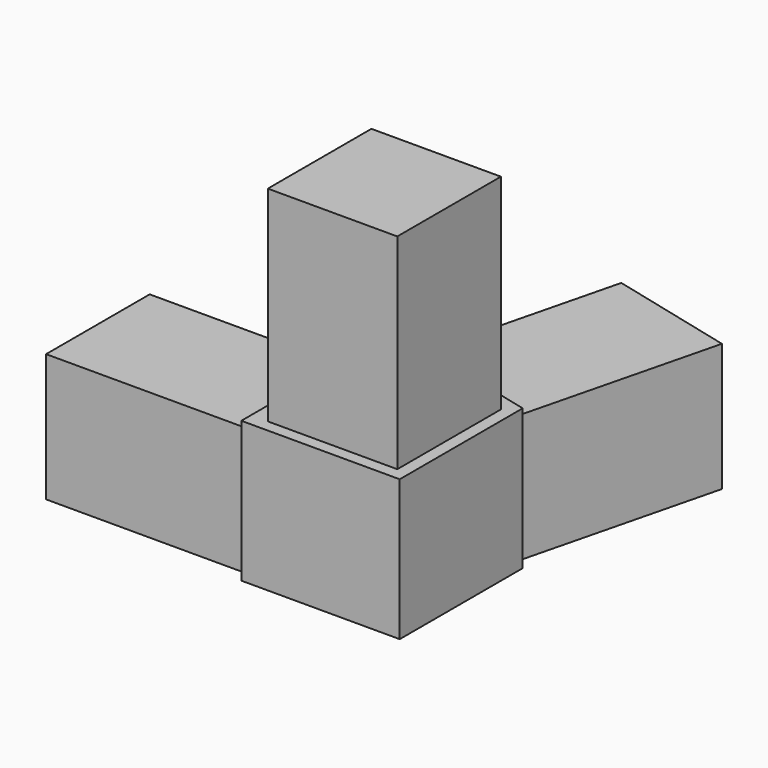
from build123d import *

# Parameters (mm, degrees)
F1_DEPTH = 15.85
F3_DEPTH = 1.6
F4_W     = 16.05
F4_H     = 16.05
F5_DEPTH = 25.4


with BuildPart() as f1:
    # F0 (on Top) → F1 (new body)
    with BuildSketch(Plane.XY):
        Polygon((-19.63319, 0), (0, 0), (0, 19.05), (-1.455444, 19.412883), (4.689373, 44.058394), (-10.883874, 47.941241), (-17.02869, 23.295729), (-18.484134, 23.658612), (-19.63319, 19.05), (-19.63319, 17.55), (-45.03319, 17.55), (-45.03319, 1.5), (-19.63319, 1.5), align=None)
    extrude(amount=F1_DEPTH)

    # F2 (on face) → F3 (join)
    with BuildSketch(Plane.XY.offset(15.85)):
        Polygon((-19.63319, 1.5), (-19.63319, 0), (0, 0), (0, 19.05), (-1.455444, 19.412883), (-17.02869, 23.295729), (-18.484134, 23.658612), (-19.63319, 19.05), (-19.63319, 17.55), align=None)
    extrude(amount=F3_DEPTH)

    # F4 (on face) → F5 (join)
    with BuildSketch(Plane.XY.offset(17.45)):
        with Locations((-9.525, 9.525)):
            Rectangle(F4_W, F4_H)
    extrude(amount=F5_DEPTH)


solid = f1.part
